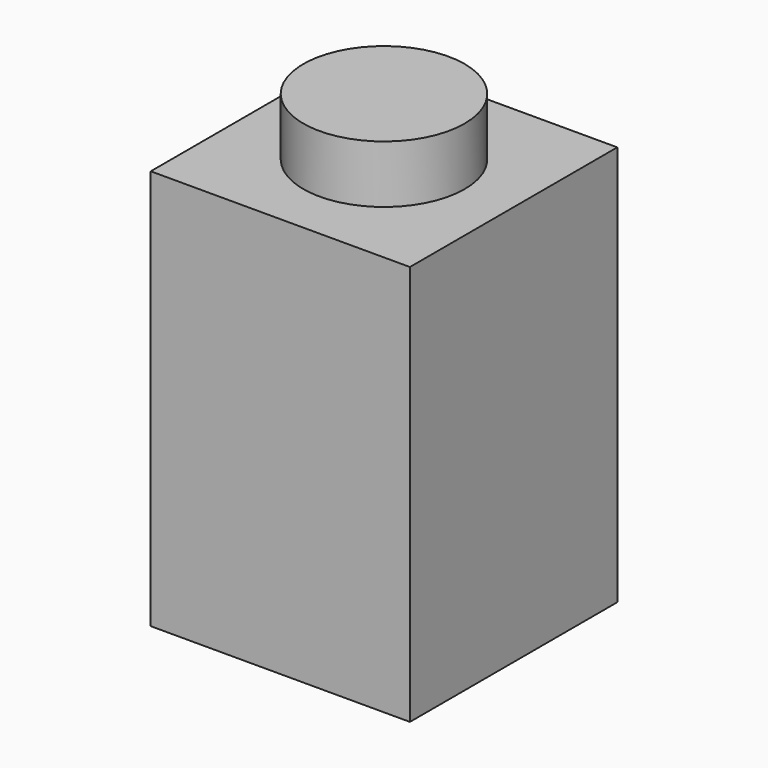
from build123d import *

# Parameters (mm, degrees)
F0_W     = 7.874
F0_H     = 7.874
F1_DEPTH = 12.1666
F2_T     = -1.524
F4_D     = 1.905
F4_DEPTH = 0.254
F4_TIP   = 0.5723197396
F5_R     = 2.4511
F6_DEPTH = 1.7526


with BuildPart() as f1:
    # F0 (on Top) → F1 (new body)
    with BuildSketch(Plane.XY):
        Rectangle(F0_W, F0_H)
    extrude(amount=F1_DEPTH)

    # F2
    f2_openings = [f1.faces().sort_by_distance(p)[0] for p in [
        (0, 0, 0),
    ]]
    offset(amount=F2_T, openings=f2_openings)

    # F4
    with Locations(Plane(origin=(0, 0, 10.6426), x_dir=(1, 0, 0), z_dir=(0, 0, -1))):
        with Locations((0, 0)):
            Hole(F4_D / 2, depth=F4_DEPTH)
            with Locations((0, 0, -(F4_DEPTH + F4_TIP / 2))):  # 118° drill point
                Cone(0, F4_D / 2, F4_TIP, mode=Mode.SUBTRACT)

    # F5 (on face) → F6 (join)
    with BuildSketch(Plane.XY.offset(12.1666)):
        Circle(F5_R)
    extrude(amount=F6_DEPTH)


solid = f1.part
